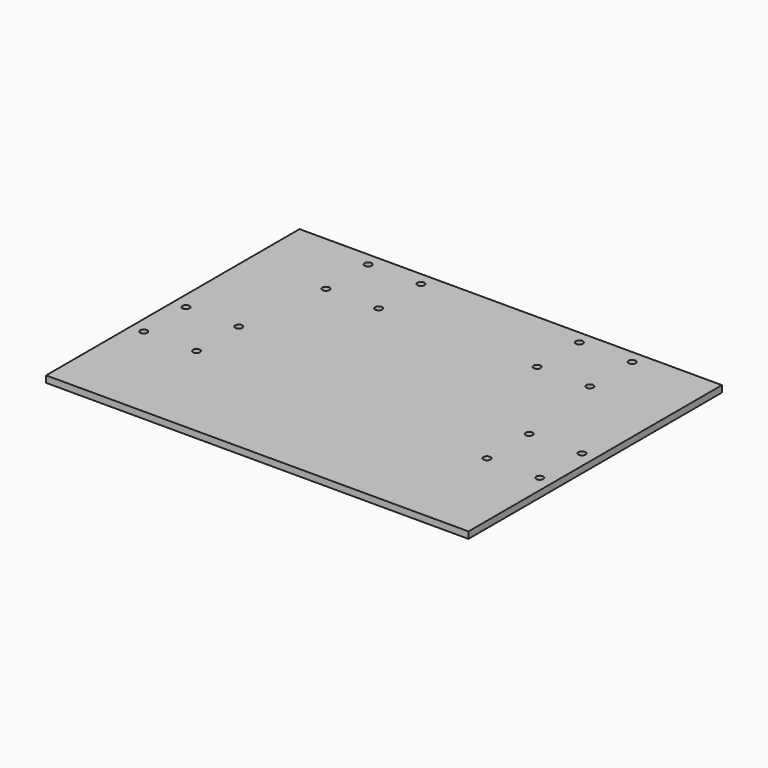
from build123d import *

# Parameters (mm, degrees)
F1_DEPTH = 6.35
F2_D     = 6.7564


with BuildPart() as f1:
    # F0 (on Top) → F1 (new body)
    with BuildSketch(Plane.XY):
        Polygon((-190.5, 152.4), (-203.2, 152.4), (-203.2, -152.4), (203.2, -152.4), (203.2, 152.4), (190.5, 152.4), (127, 152.4), (-127, 152.4), align=None)
    extrude(amount=F1_DEPTH)

    # F2 (through all)
    with Locations(Plane(origin=(0, 0, 0), x_dir=(1, 0, 0), z_dir=(0, 0, -1))):
        with Locations((-127, -139.7), (-76.2, -139.7), (-127, -88.9), (-76.2, -88.9), (76.2, -139.7), (127, -139.7), (76.2, -88.9), (127, -88.9), (139.7, 0), (190.5, 0), (139.7, 50.8), (190.5, 50.8), (-190.5, 0), (-139.7, 0), (-139.7, 50.8), (-190.5, 50.8)):
            Hole(F2_D / 2)


solid = f1.part
